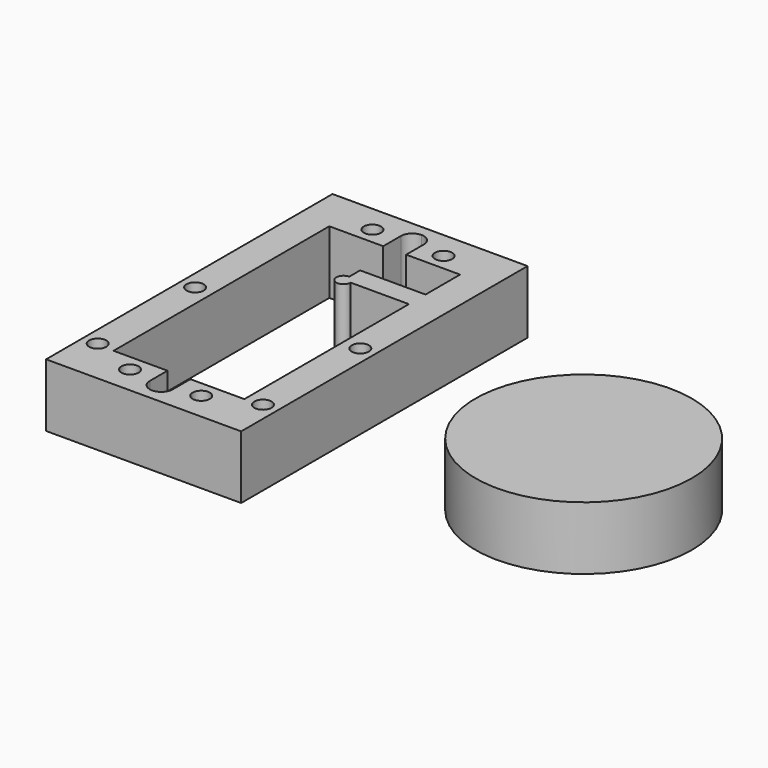
from build123d import *

# Parameters (mm, degrees)
F0_W     = 43.18
F0_H     = 79.248
F0_R     = 1.905
F1_DEPTH = 13.97
F2_R     = 23.9395
F3_DEPTH = 13.97


with BuildPart() as f1:
    # F0 (on Top) → F1 (new body)
    with BuildSketch(Plane.XY):
        with Locations((-21.59, 39.624)):
            Rectangle(F0_W, F0_H)
        with Locations((-39.878, 10.16)):
            Circle(F0_R, mode=Mode.SUBTRACT)
        with Locations((-29.464, 6.096)):
            Circle(F0_R, mode=Mode.SUBTRACT)
        with Locations((-39.878, 37.1094)):
            Circle(F0_R, mode=Mode.SUBTRACT)
        with Locations((-13.716, 6.096)):
            Circle(F0_R, mode=Mode.SUBTRACT)
        with Locations((-3.302, 10.16)):
            Circle(F0_R, mode=Mode.SUBTRACT)
        with BuildLine():
            Line((-36.068, 69.469), (-24.13, 69.469))
            Line((-24.13, 69.469), (-24.13, 74.3585))
            ThreePointArc((-24.13, 74.3585), (-23.386051, 76.154551), (-21.59, 76.8985))
            ThreePointArc((-21.59, 76.8985), (-19.793949, 76.154551), (-19.05, 74.3585))
            Line((-19.05, 74.3585), (-19.05, 69.469))
            Line((-19.05, 69.469), (-7.112, 69.469))
            Line((-7.112, 69.469), (-7.112, 59.912313))
            Line((-7.112, 59.912313), (-7.112, 55.3085))
            Line((-7.112, 55.3085), (-7.112, 9.779))
            Line((-7.112, 9.779), (-19.05, 9.779))
            Line((-19.05, 9.779), (-19.05, 4.8895))
            ThreePointArc((-19.05, 4.8895), (-19.793949, 3.093449), (-21.59, 2.3495))
            ThreePointArc((-21.59, 2.3495), (-23.386051, 3.093449), (-24.13, 4.8895))
            Line((-24.13, 4.8895), (-24.13, 9.779))
            Line((-24.13, 9.779), (-36.068, 9.779))
            Line((-36.068, 9.779), (-36.068, 69.469))
        make_face(mode=Mode.SUBTRACT)
        with Locations((-3.302, 37.1094)):
            Circle(F0_R, mode=Mode.SUBTRACT)
        with Locations((-29.464, 73.152)):
            Circle(F0_R, mode=Mode.SUBTRACT)
        with Locations((-13.716, 73.152)):
            Circle(F0_R, mode=Mode.SUBTRACT)
        with BuildLine():
            Line((-7.112, 55.3085), (-7.112, 59.912313))
            Line((-7.112, 59.912313), (-21.59, 59.912313))
            Line((-21.59, 59.912313), (-21.59, 56.896))
            ThreePointArc((-21.59, 56.896), (-20.467468, 56.431032), (-20.0025, 55.3085))
            Line((-20.0025, 55.3085), (-7.112, 55.3085))
        make_face()
        with BuildLine():
            ThreePointArc((-21.59, 56.896), (-22.712532, 54.185968), (-20.0025, 55.3085))
            Line((-20.0025, 55.3085), (-21.59, 55.3085))
            Line((-21.59, 55.3085), (-21.59, 56.896))
        make_face()
        with BuildLine():
            Line((-21.59, 55.3085), (-20.0025, 55.3085))
            ThreePointArc((-20.0025, 55.3085), (-20.467468, 56.431032), (-21.59, 56.896))
            Line((-21.59, 56.896), (-21.59, 55.3085))
        make_face()
    extrude(amount=F1_DEPTH)


with BuildPart() as f3:
    # F2 (on Top) → F3 (new body)
    with BuildSketch(Plane.XY):
        with Locations((47.874164, 34.931198)):
            Circle(F2_R)
    extrude(amount=F3_DEPTH)


solid = Compound([f1.part, f3.part])
